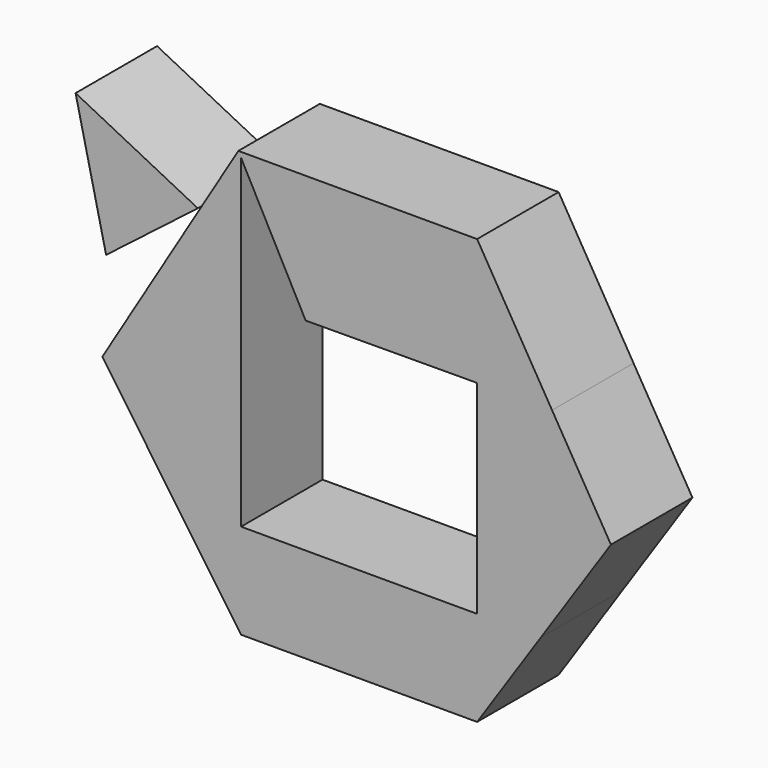
from build123d import *

# Parameters (mm, degrees)
F0_W     = 58.8658623485
F0_H     = 23.7237234095
F1_DEPTH = 25.4
F3_DEPTH = 25.4


with BuildPart() as f1:
    # F0 (on Front) → F1 (new body)
    with BuildSketch(Plane.XZ):
        Polygon((-12.9010052122, 24.4383652977), (13.0467035291, 24.5646677746), (29.8637468368, 56.2282279134), (-29.6828635037, 56.2282279134), (-29.0021155117, 54.9386874606), align=None)
        Polygon((29.8637468368, 56.2282279134), (13.0467035291, 24.5646677746), (29.8637468368, 24.6465260321), align=None)
        Polygon((48.5526622897, 24.7374957719), (29.8637468368, 56.2282279134), (29.8637468368, 24.6465260321), align=None)
        Polygon((48.5526622897, 24.7374957719), (29.8637468368, 24.6465260321), (29.8637468368, 14.6445052485), align=None)
        Polygon((-29.0021155117, 24.3599918995), (-29.0021155117, 54.9386874606), (-29.6828635037, 56.2282279134), (-48.9659315296, 24.2628164827), align=None)
        Polygon((-29.0021155117, 13.659701827), (-29.0021155117, 24.3599918995), (-48.9659315296, 24.2628164827), align=None)
        Polygon((63.2337108254, 0), (48.5526622897, 24.7374957719), (29.8637468368, 14.6445052485), (29.8637468368, -17.6049365182), (45.7682556929, -26.0520856401), align=None)
        Polygon((-29.0021155117, -17.1461351622), (-29.0021155117, 13.659701827), (-48.9659315296, 24.2628164827), (-63.602425158, 0), (-45.493021267, -26.0520856401), align=None)
        Polygon((45.7682556929, -26.0520856401), (29.8637468368, -17.6049365182), (29.8637468368, -26.0520856401), align=None)
        Polygon((-29.0021155117, -26.0520856401), (-29.0021155117, -17.1461351622), (-45.493021267, -26.0520856401), align=None)
        Polygon((29.8637468368, -49.7758090496), (45.7682556929, -26.0520856401), (29.8637468368, -26.0520856401), align=None)
        with Locations((0.4308156625, -37.9139473449)):
            Rectangle(F0_W, F0_H)
        Polygon((-29.0021155117, -49.7758090496), (-29.0021155117, -26.0520856401), (-45.493021267, -26.0520856401), align=None)
    extrude(amount=F1_DEPTH)


with BuildPart() as f3:
    # F2 (on Front) → F3 (new body)
    with BuildSketch(Plane.XZ):
        Polygon((-70.2694356441, 55.7105280459), (-62.6599490643, 22.6625911891), (-39.7923663259, 40.3382442892), align=None)
    extrude(amount=F3_DEPTH)


solid = Compound([f1.part, f3.part])
